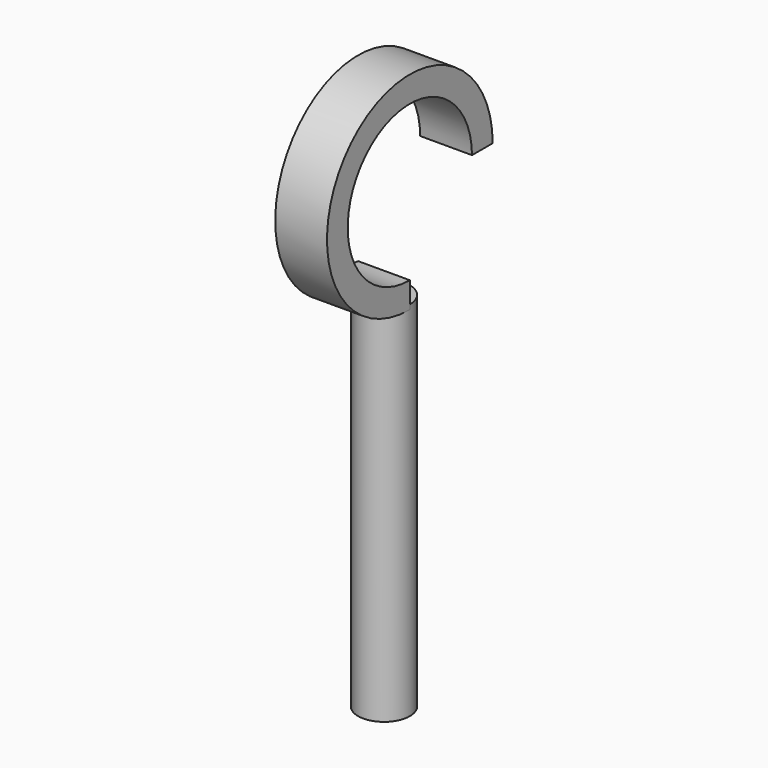
from build123d import *

# Parameters (mm, degrees)
F0_R     = 0.5
F1_DEPTH = 7
F3_DEPTH = 0.5


with BuildPart() as f1:
    # F0 (on Top) → F1 (new body)
    with BuildSketch(Plane.XY):
        Circle(F0_R)
    extrude(amount=F1_DEPTH)

    # F2 (on Right) → F3 (join, symmetric)
    with BuildSketch(Plane.YZ):
        with BuildLine():
            Line((1.499917, 8.926351), (1.999938, 8.926351))
            ThreePointArc((1.999938, 8.926351), (-1.419777, 10.319213), (0, 6.910584))
            Line((0, 6.910584), (0, 7.410584))
            ThreePointArc((0, 7.410584), (-1.06622, 9.965656), (1.499917, 8.926351))
        make_face()
    extrude(amount=F3_DEPTH, both=True)


solid = f1.part
